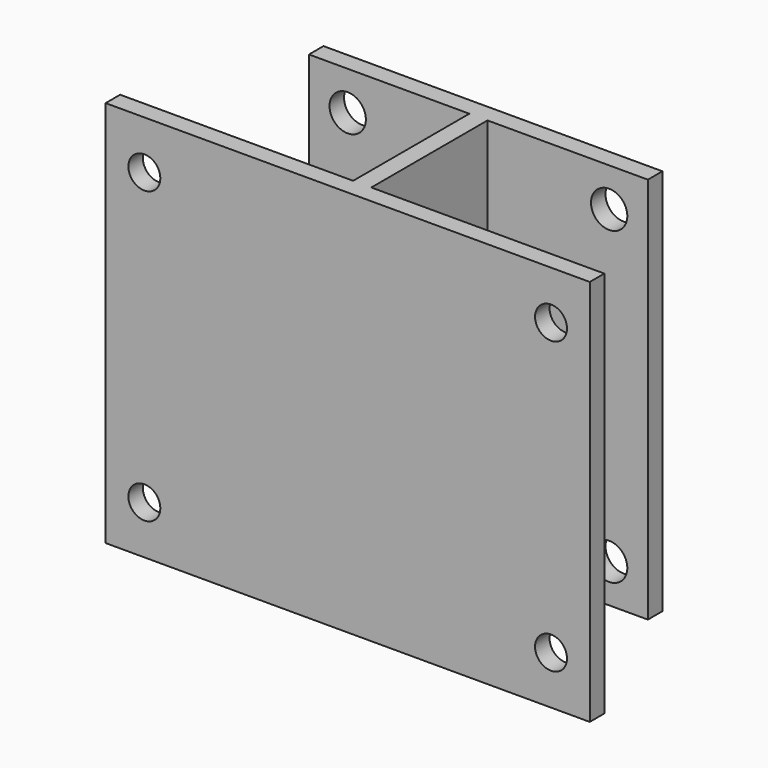
from build123d import *

# Parameters (mm, degrees)
F0_W     = 127
F0_H     = 101.6
F0_R     = 4.191
F1_DEPTH = 4.7625
F2_W     = 4.7625
F2_H     = 101.6
F3_DEPTH = 38.1
F4_W     = 88.9
F4_H     = 101.6
F4_R     = 4.7625
F5_DEPTH = 4.7625


with BuildPart() as f1:
    # F0 (on Front) → F1 (new body)
    with BuildSketch(Plane.XZ):
        Rectangle(F0_W, F0_H)
        with Locations((-53.34, -38.1)):
            Circle(F0_R, mode=Mode.SUBTRACT)
        with Locations((53.34, -38.1)):
            Circle(F0_R, mode=Mode.SUBTRACT)
        with Locations((-53.34, 38.1)):
            Circle(F0_R, mode=Mode.SUBTRACT)
        with Locations((53.34, 38.1)):
            Circle(F0_R, mode=Mode.SUBTRACT)
    extrude(amount=F1_DEPTH)

    # F2 (on face) → F3 (join)
    with BuildSketch(Plane(origin=(0, 0, 0), x_dir=(-1, 0, 0), z_dir=(0, 1, 0))):
        Rectangle(F2_W, F2_H)
    extrude(amount=F3_DEPTH)

    # F4 (on face) → F5 (join)
    with BuildSketch(Plane(origin=(0, 38.1, 0), x_dir=(-1, 0, 0), z_dir=(0, 1, 0))):
        Rectangle(F4_W, F4_H)
        with Locations((-34.29, -40.64)):
            Circle(F4_R, mode=Mode.SUBTRACT)
        with Locations((34.29, -40.64)):
            Circle(F4_R, mode=Mode.SUBTRACT)
        with Locations((-34.29, 40.64)):
            Circle(F4_R, mode=Mode.SUBTRACT)
        with Locations((34.29, 40.64)):
            Circle(F4_R, mode=Mode.SUBTRACT)
    extrude(amount=F5_DEPTH)


solid = f1.part
